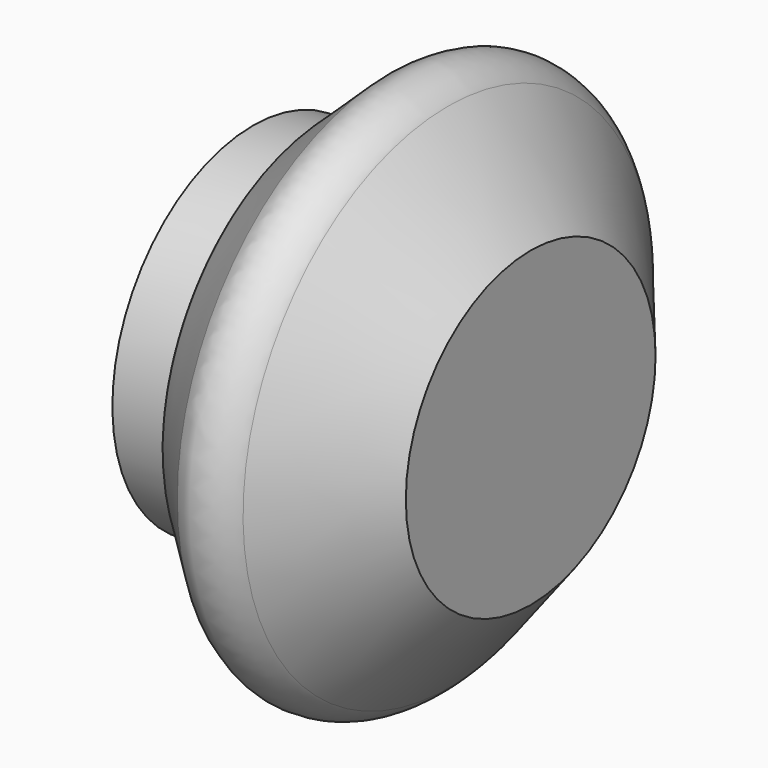
from build123d import *


with BuildPart() as f1:
    # F0 (on Front) → F1 (revolve)
    with BuildSketch(Plane.XZ):
        with BuildLine():
            Line((17.8668383956, 15.100086289), (9.8720481619, 24.7891377658))
            add(Edge.make_bspline(
                [(4.3332174568, 25.8130880211), (4.6873554034, 26.0396653478), (5.5198593385, 26.5077257402), (6.9134243002, 26.5328921513), (8.5015393576, 26.0844114305), (9.6266326972, 25.1083988869), (9.8103260602, 24.8694320839), (9.8720481619, 24.7891377658)],
                knots=[0.0753740232, 0.0753740232, 0.0753740232, 0.0753740232, 0.236653892, 0.4524170896, 0.6819552068, 0.89313499, 1, 1, 1, 1], degree=3))
            Line((4.3332174568, 25.8130880211), (-1.3725649834, 20.4293505417))
            ThreePointArc((-1.3725649834, 20.4293505417), (-1.8364540039, 19.7667886958), (-1.9999995132, 18.9746813235))
            Line((-1.9999995132, 18.9746813235), (-1.9999997204, 17.3415018813))
            ThreePointArc((-1.9999997204, 17.3415018813), (-2.1000233337, 17.1000235826), (-2.3415016451, 17))
            Line((-2.3415016451, 17), (-8.9999977499, 17))
            Line((-8.9999977499, 17), (-8.9999977499, 0))
            Line((-8.9999977499, 0), (-1.9999977499, 0))
            Line((-1.9999977499, 0), (17.8668383956, 0))
            Line((17.8668383956, 0), (17.8668383956, 15.100086289))
        make_face()
    revolve(axis=Axis((7.9334203228, 0, 0), (1, 0, 0)))


solid = f1.part
